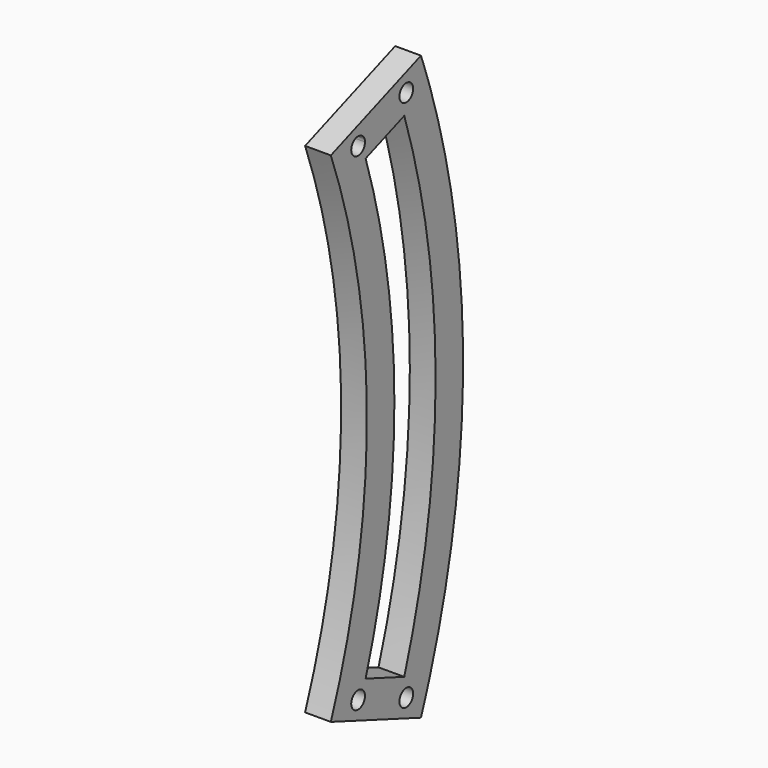
from build123d import *

# Parameters (mm, degrees)
F0_R     = 1.5875
F1_DEPTH = 4.7625


with BuildPart() as f1:
    # F0 (on Right) → F1 (new body)
    with BuildSketch(Plane.YZ):
        with BuildLine():
            Line((144.253969, 53.878962), (123.433809, 46.102617))
            ThreePointArc((123.433809, 46.102617), (131.7625, 0), (123.433809, -46.102617))
            Line((123.433809, -46.102617), (144.253969, -53.878962))
            ThreePointArc((144.253969, -53.878962), (145.334433, -50.892562), (146.353078, -47.884515))
            ThreePointArc((146.353078, -47.884515), (153.9875, 0), (146.353078, 47.884515))
            ThreePointArc((146.353078, 47.884515), (145.334433, 50.892562), (144.253969, 53.878962))
        make_face()
        with Locations((129.733229, -45.066222)):
            Circle(F0_R, mode=Mode.SUBTRACT)
        with Locations((140.870361, -49.225949)):
            Circle(F0_R, mode=Mode.SUBTRACT)
        with BuildLine():
            ThreePointArc((128.246075, 44.510769), (129.177776, 46.553376), (131.220384, 45.621675))
            ThreePointArc((131.220384, 45.621675), (131.295441, 45.348444), (131.320729, 45.066222))
            ThreePointArc((131.320729, 45.066222), (130.015451, 43.50401), (128.246075, 44.510769))
        make_face(mode=Mode.SUBTRACT)
        with BuildLine():
            ThreePointArc((131.467417, -42.324709), (138.1125, 0), (131.467417, 42.324709))
            Line((131.467417, 42.324709), (140.399178, 45.660729))
            ThreePointArc((140.399178, 45.660729), (147.6375, 0), (140.399178, -45.660729))
            Line((140.399178, -45.660729), (131.467417, -42.324709))
        make_face(mode=Mode.SUBTRACT)
        with Locations((140.870361, 49.225949)):
            Circle(F0_R, mode=Mode.SUBTRACT)
    extrude(amount=F1_DEPTH)


solid = f1.part
